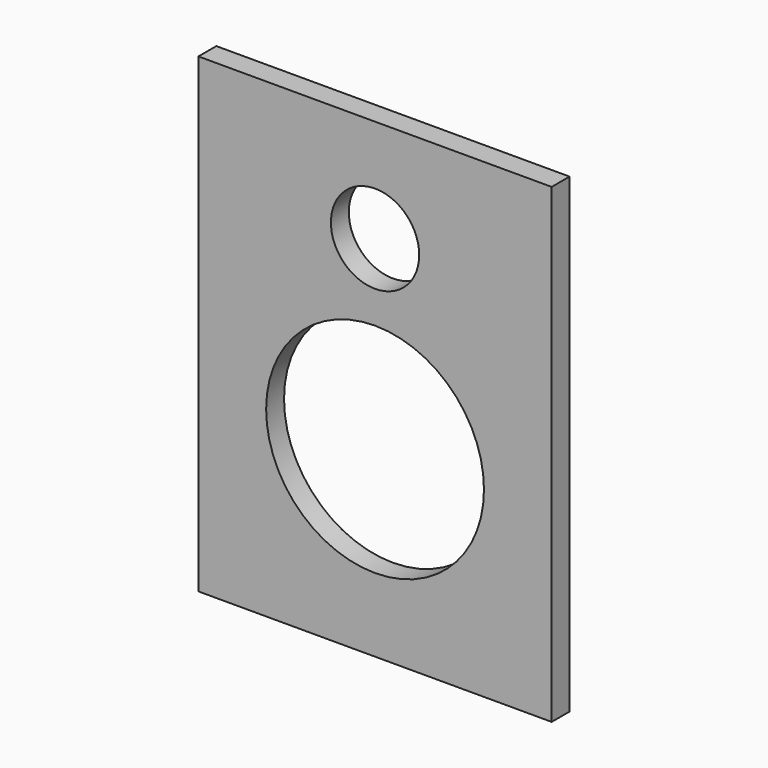
from build123d import *

# Parameters (mm, degrees)
F0_W     = 300
F0_H     = 400
F1_DEPTH = 19
F2_R     = 37.5
F2_R_2   = 92.5
F3_DEPTH = 19


with BuildPart() as f1:
    # F0 (on Front) → F1 (new body)
    with BuildSketch(Plane.XZ):
        with Locations((-9.787694, 40.103535)):
            Rectangle(F0_W, F0_H)
    extrude(amount=F1_DEPTH)

    # F2 (on face) → F3 (cut)
    with BuildSketch(Plane.XZ.offset(19)):
        with Locations((-9.787694, 152.603535)):
            Circle(F2_R)
        with Locations((-9.787694, -4.896465)):
            Circle(F2_R_2)
    extrude(amount=-F3_DEPTH, mode=Mode.SUBTRACT)


solid = f1.part
